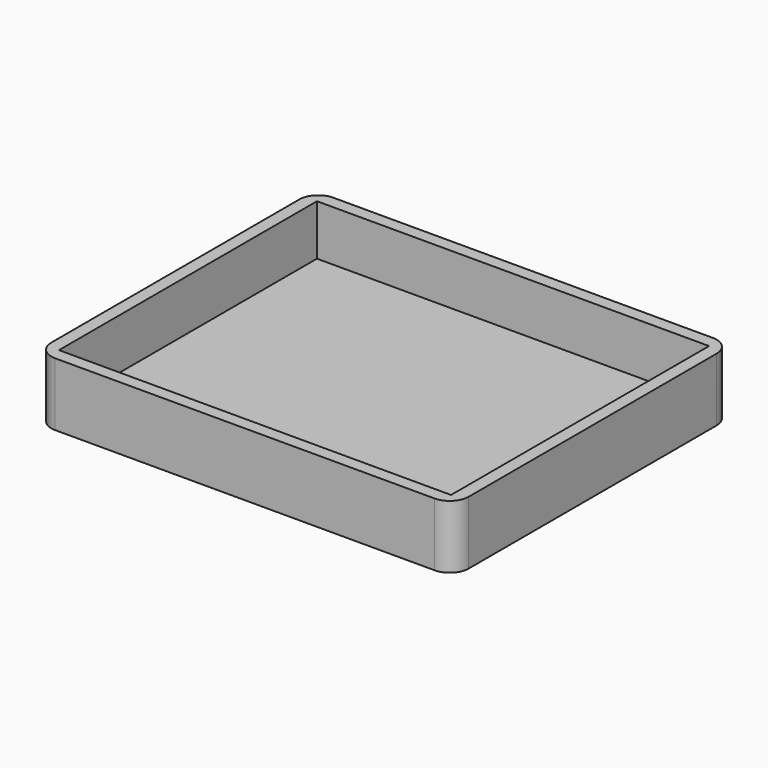
from build123d import *

# Parameters (mm, degrees)
F0_W     = 66
F0_H     = 55
F1_DEPTH = 10
F2_T     = -2
F3_R     = 3
F4_R     = 3
F5_R     = 3
F6_R     = 3


with BuildPart() as f1:
    # F0 (on Top) → F1 (new body)
    with BuildSketch(Plane.XY):
        with Locations((-33, 27.5)):
            Rectangle(F0_W, F0_H)
    extrude(amount=F1_DEPTH)

    # F2
    f2_openings = [f1.faces().sort_by_distance(p)[0] for p in [
        (-33, 27.5, 10),
    ]]
    offset(amount=F2_T, openings=f2_openings)

    # F3
    f3_edges = [f1.edges().sort_by_distance(p)[0] for p in [
        (0, 55, 5),
    ]]
    fillet(f3_edges, radius=F3_R)

    # F4
    f4_edges = [f1.edges().sort_by_distance(p)[0] for p in [
        (0, 0, 5),
    ]]
    fillet(f4_edges, radius=F4_R)

    # F5
    f5_edges = [f1.edges().sort_by_distance(p)[0] for p in [
        (-66, 55, 5),
    ]]
    fillet(f5_edges, radius=F5_R)

    # F6
    f6_edges = [f1.edges().sort_by_distance(p)[0] for p in [
        (-66, 0, 5),
    ]]
    fillet(f6_edges, radius=F6_R)


solid = f1.part
